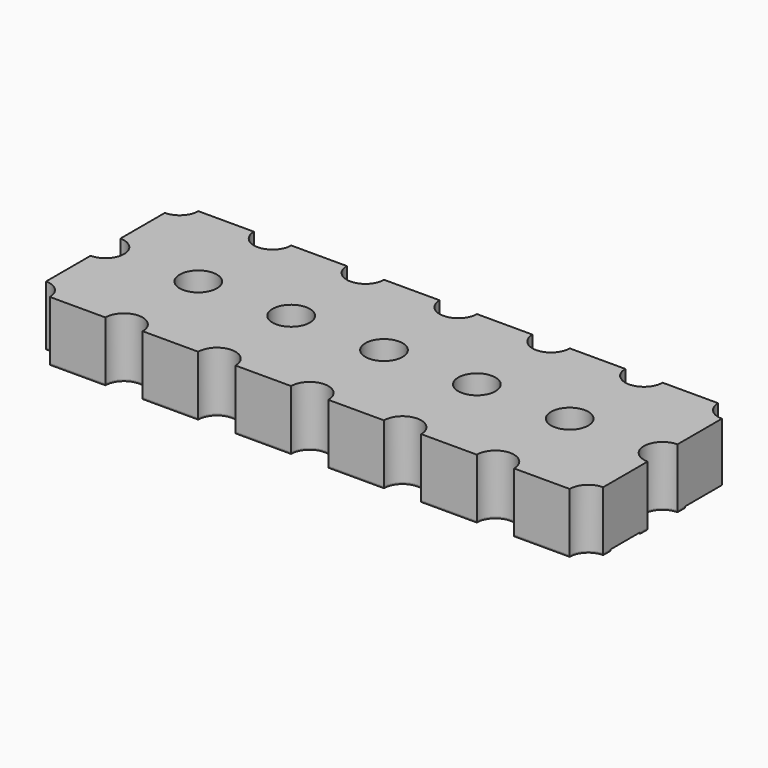
from build123d import *

# Parameters (mm, degrees)
SKETCH_W                     = 15.24
SKETCH_H                     = 5.08
PAD_DEPTH                    = 1.6
SKETCH001_R                  = 0.51
POCKET_DEPTH                 = 33.888707
SKETCH001_LINEARPATTERN_2_R  = 0.51
POCKET_LINEARPATTERN_2_DEPTH = 33.888707
SKETCH001_LINEARPATTERN_3_R  = 0.51
POCKET_LINEARPATTERN_3_DEPTH = 33.888707
SKETCH001_LINEARPATTERN_4_R  = 0.51
POCKET_LINEARPATTERN_4_DEPTH = 33.888707
SKETCH001_LINEARPATTERN_5_R  = 0.51
POCKET_LINEARPATTERN_5_DEPTH = 33.888707
SKETCH001_LINEARPATTERN_6_R  = 0.51
POCKET_LINEARPATTERN_6_DEPTH = 33.888707
SKETCH001_LINEARPATTERN_7_R  = 0.51
POCKET_LINEARPATTERN_7_DEPTH = 33.888707
LINEARPATTERN003_COUNT       = 3
LINEARPATTERN003_PITCH       = 2.54
SKETCH002_W                  = 15.24
SKETCH002_H                  = 1.53
PAD001_DEPTH                 = 0.035
SKETCH003_R                  = 0.51
POCKET001_DEPTH              = 0.036
LINEARPATTERN004_COUNT       = 7
LINEARPATTERN004_PITCH       = 2.54
SKETCH004_W                  = 15.24
SKETCH004_H                  = 0.765
PAD002_DEPTH                 = 0.035
SKETCH005_R                  = 0.51
POCKET002_DEPTH              = 0.036
LINEARPATTERN005_COUNT       = 7
LINEARPATTERN005_PITCH       = 2.54
BODY004_PLACEMENT_ANGLE      = 180


with BuildPart() as obj1:
    # Sketch → Pad (new body)
    with BuildSketch(Plane.XY):
        Rectangle(SKETCH_W, SKETCH_H)
    extrude(amount=PAD_DEPTH)

    # Sketch001 → Pocket (cut, through all)
    with BuildSketch(Plane.XY.offset(1.6)):
        with Locations((-7.62, 2.54)):
            Circle(SKETCH001_R)
    pocket = extrude(amount=-POCKET_DEPTH, mode=Mode.SUBTRACT)

    # Sketch001 LinearPattern 2 → Pocket LinearPattern 2 (cut, through all)
    with BuildSketch(Plane(origin=(2.54, 0, 1.6), x_dir=(1, 0, 0), z_dir=(0, 0, 1))):
        with Locations((-7.62, 2.54)):
            Circle(SKETCH001_LINEARPATTERN_2_R)
    pocket_linearpattern_2 = extrude(amount=-POCKET_LINEARPATTERN_2_DEPTH, mode=Mode.SUBTRACT)

    # Sketch001 LinearPattern 3 → Pocket LinearPattern 3 (cut, through all)
    with BuildSketch(Plane(origin=(5.08, 0, 1.6), x_dir=(1, 0, 0), z_dir=(0, 0, 1))):
        with Locations((-7.62, 2.54)):
            Circle(SKETCH001_LINEARPATTERN_3_R)
    pocket_linearpattern_3 = extrude(amount=-POCKET_LINEARPATTERN_3_DEPTH, mode=Mode.SUBTRACT)

    # Sketch001 LinearPattern 4 → Pocket LinearPattern 4 (cut, through all)
    with BuildSketch(Plane(origin=(7.62, 0, 1.6), x_dir=(1, 0, 0), z_dir=(0, 0, 1))):
        with Locations((-7.62, 2.54)):
            Circle(SKETCH001_LINEARPATTERN_4_R)
    pocket_linearpattern_4 = extrude(amount=-POCKET_LINEARPATTERN_4_DEPTH, mode=Mode.SUBTRACT)

    # Sketch001 LinearPattern 5 → Pocket LinearPattern 5 (cut, through all)
    with BuildSketch(Plane(origin=(10.16, 0, 1.6), x_dir=(1, 0, 0), z_dir=(0, 0, 1))):
        with Locations((-7.62, 2.54)):
            Circle(SKETCH001_LINEARPATTERN_5_R)
    pocket_linearpattern_5 = extrude(amount=-POCKET_LINEARPATTERN_5_DEPTH, mode=Mode.SUBTRACT)

    # Sketch001 LinearPattern 6 → Pocket LinearPattern 6 (cut, through all)
    with BuildSketch(Plane(origin=(12.7, 0, 1.6), x_dir=(1, 0, 0), z_dir=(0, 0, 1))):
        with Locations((-7.62, 2.54)):
            Circle(SKETCH001_LINEARPATTERN_6_R)
    pocket_linearpattern_6 = extrude(amount=-POCKET_LINEARPATTERN_6_DEPTH, mode=Mode.SUBTRACT)

    # Sketch001 LinearPattern 7 → Pocket LinearPattern 7 (cut, through all)
    with BuildSketch(Plane(origin=(15.24, 0, 1.6), x_dir=(1, 0, 0), z_dir=(0, 0, 1))):
        with Locations((-7.62, 2.54)):
            Circle(SKETCH001_LINEARPATTERN_7_R)
    pocket_linearpattern_7 = extrude(amount=-POCKET_LINEARPATTERN_7_DEPTH, mode=Mode.SUBTRACT)

    # LinearPattern003: Pocket, Pocket LinearPattern 2, Pocket LinearPattern 3, Pocket LinearPattern 4, Pocket LinearPattern 5, Pocket LinearPattern 6, Pocket LinearPattern 7 ×3
    with Locations(*[(0, -i * LINEARPATTERN003_PITCH, 0) for i in range(1, LINEARPATTERN003_COUNT)]):
        add(pocket, mode=Mode.SUBTRACT)
        add(pocket_linearpattern_2, mode=Mode.SUBTRACT)
        add(pocket_linearpattern_3, mode=Mode.SUBTRACT)
        add(pocket_linearpattern_4, mode=Mode.SUBTRACT)
        add(pocket_linearpattern_5, mode=Mode.SUBTRACT)
        add(pocket_linearpattern_6, mode=Mode.SUBTRACT)
        add(pocket_linearpattern_7, mode=Mode.SUBTRACT)


with BuildPart() as obj2:
    # Sketch002 → Pad001 (new body)
    with BuildSketch(Plane.XY):
        Rectangle(SKETCH002_W, SKETCH002_H)
    extrude(amount=-PAD001_DEPTH)

    # Sketch003 → Pocket001 (cut, through all)
    with BuildSketch(Plane.XY):
        with Locations((-7.62, 0)):
            Circle(SKETCH003_R)
    pocket001 = extrude(amount=-POCKET001_DEPTH, mode=Mode.SUBTRACT)

    # LinearPattern004: Pocket001 ×7
    with Locations(*[(i * LINEARPATTERN004_PITCH, 0, 0) for i in range(1, LINEARPATTERN004_COUNT)]):
        add(pocket001, mode=Mode.SUBTRACT)


with BuildPart() as partialcopperstripsclone:
    # Sketch004 → Pad002 (new body)
    with BuildSketch(Plane.XY):
        with Locations((0, 2.1575)):
            Rectangle(SKETCH004_W, SKETCH004_H)
    extrude(amount=-PAD002_DEPTH)

    # Sketch005 → Pocket002 (cut, through all)
    with BuildSketch(Plane.XY):
        with Locations((-7.62, 2.54)):
            Circle(SKETCH005_R)
    pocket002 = extrude(amount=-POCKET002_DEPTH, mode=Mode.SUBTRACT)

    # LinearPattern005: Pocket002 ×7
    with Locations(*[(i * LINEARPATTERN005_PITCH, 0, 0) for i in range(1, LINEARPATTERN005_COUNT)]):
        add(pocket002, mode=Mode.SUBTRACT)


with BuildPart() as partialcopperstripsclone_1:
    # Body004 placement: moved
    add(partialcopperstripsclone.part.rotate(Axis((0, 0, 0), (0, 0, 1)), BODY004_PLACEMENT_ANGLE))


solid = Compound([obj1.part, obj2.part, partialcopperstripsclone_1.part])
